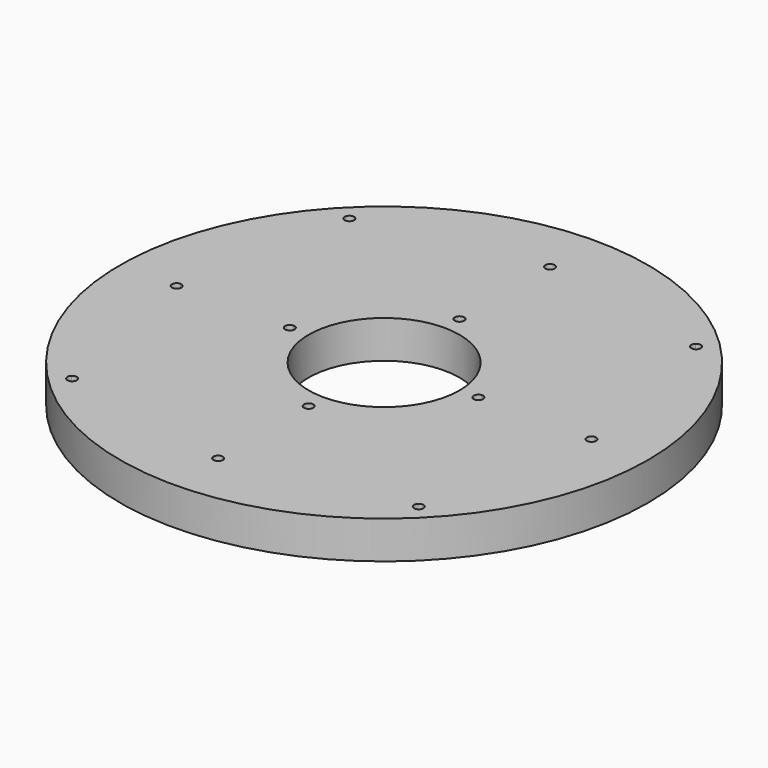
from build123d import *

# Parameters (mm, degrees)
F0_R     = 140
F1_DEPTH = 20
F3_DEPTH = 20.001
F5_DEPTH = 25
F6_R     = 40
F7_DEPTH = 25
F9_DEPTH = 25


with BuildPart() as f1:
    # F0 (on Top) → F1 (new body)
    with BuildSketch(Plane.XY):
        Circle(F0_R)
    extrude(amount=F1_DEPTH)

    # F2 (on face) → F3 (cut, through all)
    with BuildSketch(Plane.XY.offset(20)):
        with BuildLine():
            ThreePointArc((-2.4998385795, 109.9715909091), (0, 110), (2.4998385795, 109.9715909091))
            ThreePointArc((2.4998385795, 109.9715909091), (2.4999596445, 109.9857952252), (2.5, 110))
            ThreePointArc((2.5, 110), (-0.0142047748, 112.4999596445), (-2.4998385795, 109.9715909091))
        make_face()
        with BuildLine():
            ThreePointArc((-2.4998385795, 109.9715909091), (0, 107.5), (2.4998385795, 109.9715909091))
            ThreePointArc((2.4998385795, 109.9715909091), (0, 110), (-2.4998385795, 109.9715909091))
        make_face()
        with BuildLine():
            ThreePointArc((109.9715909091, 2.4998385795), (109.992897498, 1.25), (110, 0))
            ThreePointArc((110, 0), (109.992897498, -1.25), (109.9715909091, -2.4998385795))
            ThreePointArc((109.9715909091, -2.4998385795), (111.7576941248, -1.7777827099), (112.5, 0))
            ThreePointArc((112.5, 0), (111.7576941248, 1.7777827099), (109.9715909091, 2.4998385795))
        make_face()
        with BuildLine():
            ThreePointArc((109.9715909091, -2.4998385795), (109.992897498, -1.25), (110, 0))
            ThreePointArc((110, 0), (109.992897498, 1.25), (109.9715909091, 2.4998385795))
            ThreePointArc((109.9715909091, 2.4998385795), (107.5, 0), (109.9715909091, -2.4998385795))
        make_face()
        with BuildLine():
            ThreePointArc((2.5, -110), (2.4999596445, -109.9857952252), (2.4998385795, -109.9715909091))
            ThreePointArc((2.4998385795, -109.9715909091), (0, -110), (-2.4998385795, -109.9715909091))
            ThreePointArc((-2.4998385795, -109.9715909091), (-0.0142047748, -112.4999596445), (2.5, -110))
        make_face()
        with BuildLine():
            ThreePointArc((-2.4998385795, -109.9715909091), (0, -110), (2.4998385795, -109.9715909091))
            ThreePointArc((2.4998385795, -109.9715909091), (0, -107.5), (-2.4998385795, -109.9715909091))
        make_face()
        with BuildLine():
            ThreePointArc((-107.5, 0), (-108.2222172901, 1.7576941248), (-109.9715909091, 2.4998385795))
            ThreePointArc((-109.9715909091, 2.4998385795), (-110, 0), (-109.9715909091, -2.4998385795))
            ThreePointArc((-109.9715909091, -2.4998385795), (-108.2222172901, -1.7576941248), (-107.5, 0))
        make_face()
        with BuildLine():
            ThreePointArc((-109.9715909091, -2.4998385795), (-110, 0), (-109.9715909091, 2.4998385795))
            ThreePointArc((-109.9715909091, 2.4998385795), (-112.5, 0), (-109.9715909091, -2.4998385795))
        make_face()
    extrude(amount=-F3_DEPTH, mode=Mode.SUBTRACT)

    # F4 (on face) → F5 (cut)
    with BuildSketch(Plane.XY.offset(20)):
        with BuildLine():
            ThreePointArc((-89.4238815543, 91.9238815543), (-89.6096098032, 92.8694746286), (-90.139198564, 93.6745690262))
            ThreePointArc((-90.139198564, 93.6745690262), (-91.0357485398, 92.8035154927), (-91.9238815543, 91.9238815543))
            Line((-91.9238815543, 91.9238815543), (-90.1561146013, 90.1561146013))
            ThreePointArc((-90.1561146013, 90.1561146013), (-89.614182723, 90.9671729733), (-89.4238815543, 91.9238815543))
        make_face()
        with BuildLine():
            ThreePointArc((-93.6745690262, 90.139198564), (-91.9118621846, 89.4239104475), (-90.1561146013, 90.1561146013))
            Line((-90.1561146013, 90.1561146013), (-91.9238815543, 91.9238815543))
            ThreePointArc((-91.9238815543, 91.9238815543), (-92.8035154927, 91.0357485398), (-93.6745690262, 90.139198564))
        make_face()
        with BuildLine():
            ThreePointArc((-91.9238815543, 91.9238815543), (-91.0357485398, 92.8035154927), (-90.139198564, 93.6745690262))
            ThreePointArc((-90.139198564, 93.6745690262), (-93.6916485072, 93.6916485072), (-93.6745690262, 90.139198564))
            ThreePointArc((-93.6745690262, 90.139198564), (-92.8035154927, 91.0357485398), (-91.9238815543, 91.9238815543))
        make_face()
        with BuildLine():
            ThreePointArc((91.9238815543, 91.9238815543), (92.8035154927, 91.0357485398), (93.6745690262, 90.139198564))
            ThreePointArc((93.6745690262, 90.139198564), (94.228954078, 90.9560795807), (94.4238815543, 91.9238815543))
            ThreePointArc((94.4238815543, 91.9238815543), (92.8694746286, 94.2381533053), (90.139198564, 93.6745690262))
            ThreePointArc((90.139198564, 93.6745690262), (91.0357485398, 92.8035154927), (91.9238815543, 91.9238815543))
        make_face()
        with BuildLine():
            ThreePointArc((90.1561146013, 90.1561146013), (91.9118621846, 89.4239104475), (93.6745690262, 90.139198564))
            ThreePointArc((93.6745690262, 90.139198564), (92.8035154927, 91.0357485398), (91.9238815543, 91.9238815543))
            Line((91.9238815543, 91.9238815543), (90.1561146013, 90.1561146013))
        make_face()
        with BuildLine():
            Line((90.1561146013, 90.1561146013), (91.9238815543, 91.9238815543))
            ThreePointArc((91.9238815543, 91.9238815543), (91.0357485398, 92.8035154927), (90.139198564, 93.6745690262))
            ThreePointArc((90.139198564, 93.6745690262), (89.4239104475, 91.9118621846), (90.1561146013, 90.1561146013))
        make_face()
        with BuildLine():
            ThreePointArc((94.4238815543, -91.9238815543), (94.228954078, -90.9560795807), (93.6745690262, -90.139198564))
            ThreePointArc((93.6745690262, -90.139198564), (92.8035154927, -91.0357485398), (91.9238815543, -91.9238815543))
            ThreePointArc((91.9238815543, -91.9238815543), (91.0357485398, -92.8035154927), (90.139198564, -93.6745690262))
            ThreePointArc((90.139198564, -93.6745690262), (92.8694746286, -94.2381533053), (94.4238815543, -91.9238815543))
        make_face()
        with BuildLine():
            ThreePointArc((91.9238815543, -91.9238815543), (92.8035154927, -91.0357485398), (93.6745690262, -90.139198564))
            ThreePointArc((93.6745690262, -90.139198564), (91.9118621846, -89.4239104475), (90.1561146013, -90.1561146013))
            Line((90.1561146013, -90.1561146013), (91.9238815543, -91.9238815543))
        make_face()
        with BuildLine():
            ThreePointArc((90.139198564, -93.6745690262), (91.0357485398, -92.8035154927), (91.9238815543, -91.9238815543))
            Line((91.9238815543, -91.9238815543), (90.1561146013, -90.1561146013))
            ThreePointArc((90.1561146013, -90.1561146013), (89.4239104475, -91.9118621846), (90.139198564, -93.6745690262))
        make_face()
        with BuildLine():
            ThreePointArc((-89.4238815543, -91.9238815543), (-89.614182723, -90.9671729733), (-90.1561146013, -90.1561146013))
            Line((-90.1561146013, -90.1561146013), (-91.9238815543, -91.9238815543))
            ThreePointArc((-91.9238815543, -91.9238815543), (-91.0357485398, -92.8035154927), (-90.139198564, -93.6745690262))
            ThreePointArc((-90.139198564, -93.6745690262), (-89.6096098032, -92.8694746286), (-89.4238815543, -91.9238815543))
        make_face()
        with BuildLine():
            ThreePointArc((-93.6745690262, -90.139198564), (-93.6916485072, -93.6916485072), (-90.139198564, -93.6745690262))
            ThreePointArc((-90.139198564, -93.6745690262), (-91.0357485398, -92.8035154927), (-91.9238815543, -91.9238815543))
            ThreePointArc((-91.9238815543, -91.9238815543), (-92.8035154927, -91.0357485398), (-93.6745690262, -90.139198564))
        make_face()
        with BuildLine():
            Line((-91.9238815543, -91.9238815543), (-90.1561146013, -90.1561146013))
            ThreePointArc((-90.1561146013, -90.1561146013), (-91.9118621846, -89.4239104475), (-93.6745690262, -90.139198564))
            ThreePointArc((-93.6745690262, -90.139198564), (-92.8035154927, -91.0357485398), (-91.9238815543, -91.9238815543))
        make_face()
    extrude(amount=-F5_DEPTH, mode=Mode.SUBTRACT)

    # F6 (on face) → F7 (cut)
    with BuildSketch(Plane.XY.offset(20)):
        Circle(F6_R)
    extrude(amount=-F7_DEPTH, mode=Mode.SUBTRACT)

    # F8 (on face) → F9 (cut)
    with BuildSketch(Plane.XY.offset(20)):
        with BuildLine():
            ThreePointArc((-2.4992186279, 49.9375), (0, 50), (2.4992186279, 49.9375))
            ThreePointArc((2.4992186279, 49.9375), (2.4998046493, 49.9687475579), (2.5, 50))
            ThreePointArc((2.5, 50), (-0.0312524421, 52.4998046493), (-2.4992186279, 49.9375))
        make_face()
        with BuildLine():
            ThreePointArc((-2.4992186279, 49.9375), (0, 47.5), (2.4992186279, 49.9375))
            ThreePointArc((2.4992186279, 49.9375), (0, 50), (-2.4992186279, 49.9375))
        make_face()
        with BuildLine():
            ThreePointArc((-47.5, 0), (-48.2102723671, 1.7455300055), (-49.9375, 2.4992186279))
            ThreePointArc((-49.9375, 2.4992186279), (-50, 0), (-49.9375, -2.4992186279))
            ThreePointArc((-49.9375, -2.4992186279), (-48.2102723671, -1.7455300055), (-47.5, 0))
        make_face()
        with BuildLine():
            ThreePointArc((-49.9375, -2.4992186279), (-50, 0), (-49.9375, 2.4992186279))
            ThreePointArc((-49.9375, 2.4992186279), (-52.5, 0), (-49.9375, -2.4992186279))
        make_face()
        with BuildLine():
            ThreePointArc((2.5, -50), (2.4998046493, -49.9687475579), (2.4992186279, -49.9375))
            ThreePointArc((2.4992186279, -49.9375), (0, -50), (-2.4992186279, -49.9375))
            ThreePointArc((-2.4992186279, -49.9375), (-0.0312524421, -52.4998046493), (2.5, -50))
        make_face()
        with BuildLine():
            ThreePointArc((-2.4992186279, -49.9375), (0, -50), (2.4992186279, -49.9375))
            ThreePointArc((2.4992186279, -49.9375), (0, -47.5), (-2.4992186279, -49.9375))
        make_face()
        with BuildLine():
            ThreePointArc((49.9375, 2.4992186279), (49.9843725578, 1.25), (50, 0))
            ThreePointArc((50, 0), (49.9843725578, -1.25), (49.9375, -2.4992186279))
            ThreePointArc((49.9375, -2.4992186279), (51.7455300055, -1.7897276329), (52.5, 0))
            ThreePointArc((52.5, 0), (51.7455300055, 1.7897276329), (49.9375, 2.4992186279))
        make_face()
        with BuildLine():
            ThreePointArc((49.9375, -2.4992186279), (49.9843725578, -1.25), (50, 0))
            ThreePointArc((50, 0), (49.9843725578, 1.25), (49.9375, 2.4992186279))
            ThreePointArc((49.9375, 2.4992186279), (47.5, 0), (49.9375, -2.4992186279))
        make_face()
    extrude(amount=-F9_DEPTH, mode=Mode.SUBTRACT)


solid = f1.part
